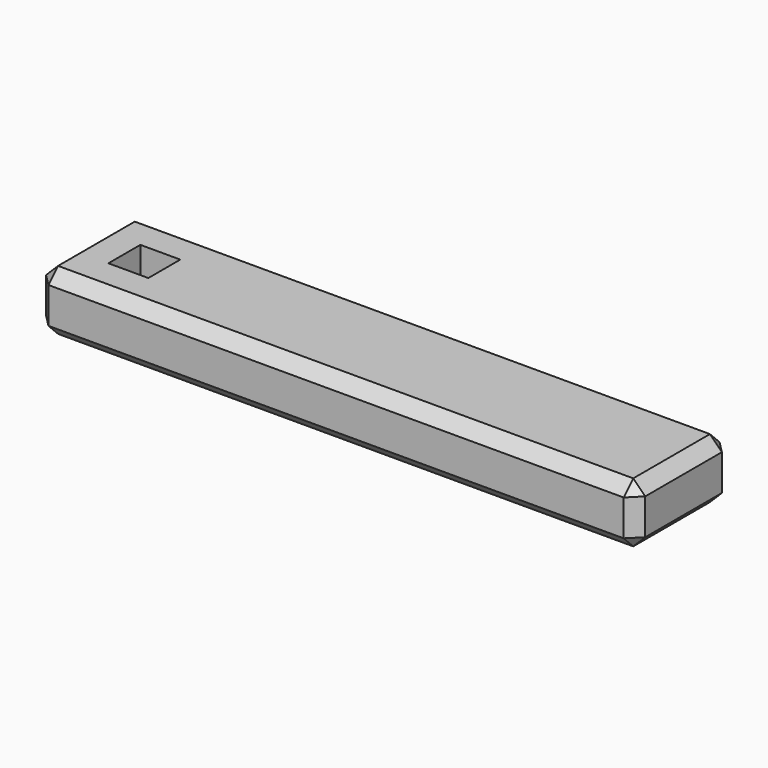
from build123d import *

# Parameters (mm, degrees)
F0_W     = 150
F0_H     = 30
F0_W_2   = 10
F0_H_2   = 10
F1_DEPTH = 15
F2_SIZE  = 3


with BuildPart() as f1:
    # F0 (on Top) → F1 (new body)
    with BuildSketch(Plane.XY):
        with Locations((60, 0)):
            Rectangle(F0_W, F0_H)
        Rectangle(F0_W_2, F0_H_2, mode=Mode.SUBTRACT)
    extrude(amount=F1_DEPTH)

    # F2
    f2_edges = [f1.edges().sort_by_distance(p)[0] for p in [
        (60, -15, 15),
        (135, -15, 7.5),
        (60, -15, 0),
        (135, 0, 0),
        (135, 15, 7.5),
        (135, 0, 15),
        (60, 15, 15),
        (-15, 0, 15),
        (-15, -15, 7.5),
        (-15, 15, 7.5),
        (-15, 0, 0),
        (60, 15, 0),
    ]]
    chamfer(f2_edges, length=F2_SIZE)


solid = f1.part
